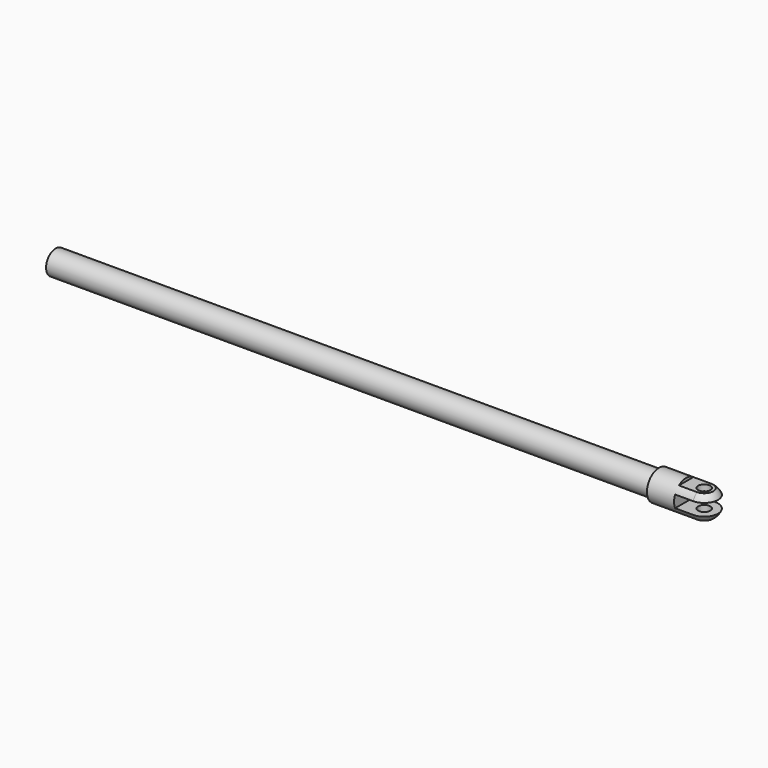
from build123d import *

# Parameters (mm, degrees)
F0_R     = 2
F0_R_2   = 1.5
F1_DEPTH = 100
F2_R     = 2.5
F2_R_2   = 2
F2_R_3   = 1.5
F3_DEPTH = 10
F4_R     = 2.5
F5_W     = 10
F5_H     = 2
F6_DEPTH = 5
F7_R     = 1
F8_DEPTH = 4.501


with BuildPart() as f1:
    # F0 (on Right) → F1 (new body)
    with BuildSketch(Plane.YZ):
        Circle(F0_R)
        Circle(F0_R_2, mode=Mode.SUBTRACT)
    extrude(amount=F1_DEPTH)

    # F2 (on face) → F3 (join)
    with BuildSketch(Plane.YZ.offset(100)):
        Circle(F2_R)
        Circle(F2_R_2, mode=Mode.SUBTRACT)
        Circle(F2_R_2)
        Circle(F2_R_3, mode=Mode.SUBTRACT)
        Circle(F2_R_3)
    extrude(amount=F3_DEPTH)

    # F4
    f4_edges = [f1.edges().sort_by_distance(p)[0] for p in [
        (110, -2.5, 0),
    ]]
    fillet(f4_edges, radius=F4_R)

    # F5 (on Front) → F6 (cut, symmetric)
    with BuildSketch(Plane.XZ):
        with Locations((109.5, 3)):
            Rectangle(F5_W, F5_H)
        with Locations((109.5, 0)):
            Rectangle(F5_W, F5_H)
        with Locations((109.5, -3)):
            Rectangle(F5_W, F5_H)
    extrude(amount=F6_DEPTH, both=True, mode=Mode.SUBTRACT)

    # F7 (on face) → F8 (cut, through all)
    with BuildSketch(Plane.XY.offset(2)):
        with Locations((107.5, 0)):
            Circle(F7_R)
    extrude(amount=-F8_DEPTH, mode=Mode.SUBTRACT)


solid = f1.part
